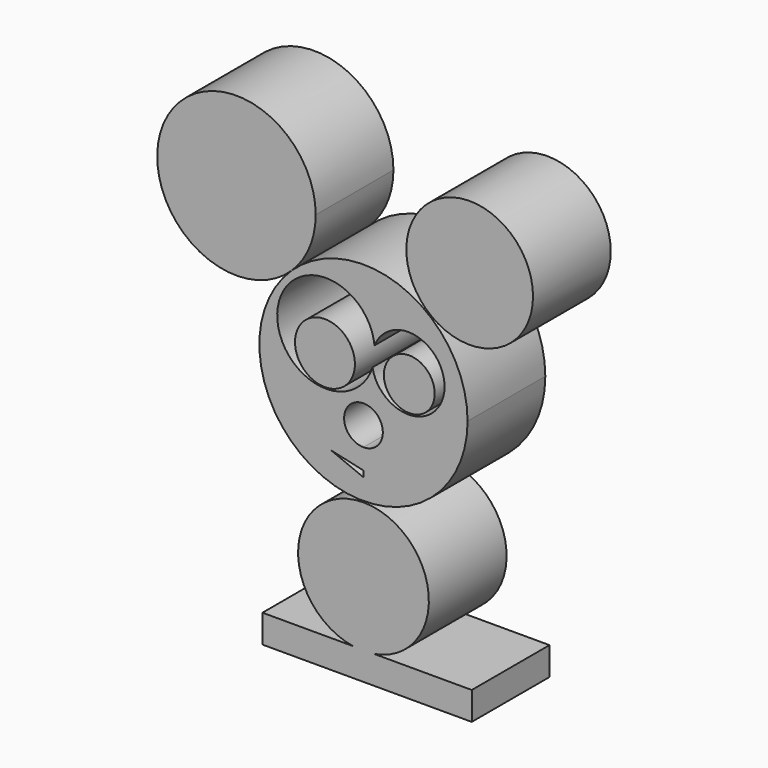
from build123d import *

# Parameters (mm, degrees)
F0_R     = 16.556043
F0_R_2   = 17.09092
F1_DEPTH = 25.4
F2_W     = 25.4
F2_H     = 7.347855
F2_W_2   = 3.900714
F3_DEPTH = 25.4
F4_R     = 7.835635
F4_R_2   = 6.643855
F5_DEPTH = 25.4


with BuildPart() as f1:
    # F0 (on Front) → F1 (new body)
    with BuildSketch(Plane.XZ):
        with BuildLine():
            ThreePointArc((-18.853193, 19.625863), (-10.66633, -25.036908), (27.214286, 0))
            ThreePointArc((27.214286, 0), (10.66633, 25.036908), (-18.853193, 19.625863))
        make_face()
        Polygon((-8.436429, -18.315361), (0, -20.194977), (0, -21.771429), align=None, mode=Mode.SUBTRACT)
        with BuildLine():
            ThreePointArc((0, -14.859293), (-3.57948, -6.217662), (5.06215, -9.797143))
            ThreePointArc((5.06215, -9.797143), (3.57948, -13.376623), (0, -14.859293))
        make_face(mode=Mode.SUBTRACT)
        with BuildLine():
            ThreePointArc((2.358291, 4.30618), (-22.485275, 9.44916), (2.884977, 9.507196))
            ThreePointArc((2.884977, 9.507196), (13.494393, 15.310285), (21.195989, 5.987143))
            ThreePointArc((21.195989, 5.987143), (12.545962, -3.469132), (2.358291, 4.30618))
        make_face(mode=Mode.SUBTRACT)
        with BuildLine():
            ThreePointArc((-12.489974, 34.562144), (-52.25579, 42.679765), (-18.853193, 19.625863))
            ThreePointArc((-18.853193, 19.625863), (-14.14707, 26.444524), (-12.489974, 34.562144))
        make_face()
        with Locations((27.758574, 34.290001)):
            Circle(F0_R)
        with Locations((0, -44.631429)):
            Circle(F0_R_2)
    extrude(amount=F1_DEPTH)

    # F2 (on Front) → F3 (join)
    with BuildSketch(Plane.XZ):
        with Locations((-13.697858, -65.178213)):
            Rectangle(F2_W, F2_H)
        with Locations((11.702142, -65.178213)):
            Rectangle(F2_W, F2_H)
        with Locations((26.352499, -65.178213)):
            Rectangle(F2_W_2, F2_H)
    extrude(amount=F3_DEPTH)


with BuildPart() as f5:
    # F4 (on Front) → F5 (new body)
    with BuildSketch(Plane.XZ):
        with Locations((-10.069286, 3.537857)):
            Circle(F4_R)
        with Locations((11.974284, 3.537857)):
            Circle(F4_R_2)
    extrude(amount=F5_DEPTH)


solid = Compound([f1.part, f5.part])
